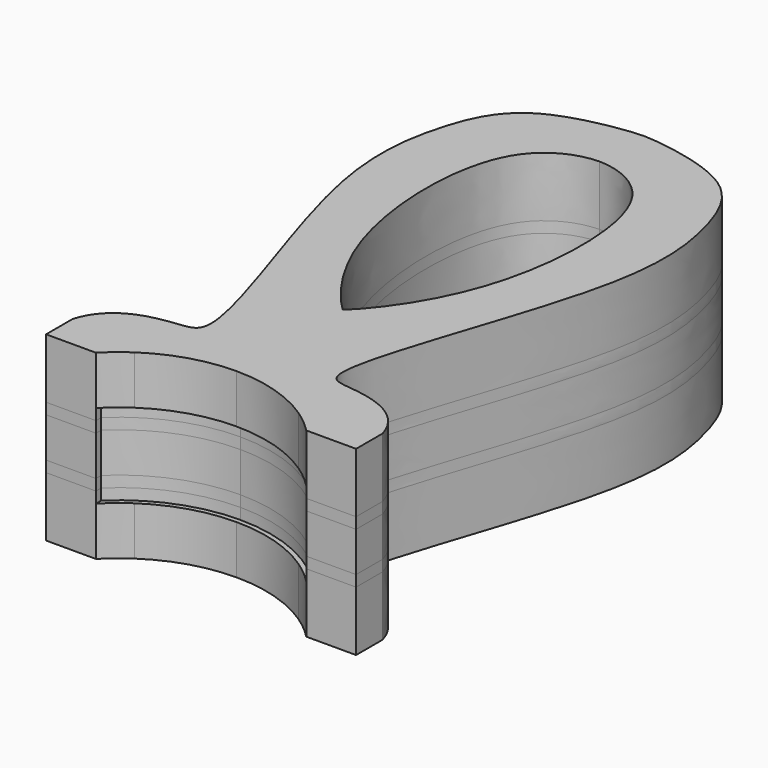
from build123d import *

# Parameters (mm, degrees)
F3_R      = 4
F4_DEPTH  = 27
F5_D      = 8
F5_DEPTH  = 24
F5_TIP    = 2.4034424761
F6_DEPTH  = 5
F10_DEPTH = 5
F12_DEPTH = 5
F13_DEPTH = 18


with BuildPart() as f4:
    # F3 (on Top) → F4 (new body)
    with BuildSketch(Plane.XY):
        with BuildLine():
            Line((-70, -20), (-70, -35))
            Line((-70, -35), (-47.5, -35))
            Line((-47.5, -35), (-47.5, -32))
            ThreePointArc((-47.5, -32), (-25.6037579481, -17.8320797891), (0, -12.8699272283))
            ThreePointArc((0, -12.8699272283), (25.6037579481, -17.8320797891), (47.5, -32))
            Line((47.5, -32), (47.5, -35))
            Line((47.5, -35), (70, -35))
            Line((70, -35), (70, -20))
            add(Edge.make_bspline(
                [(70, -20), (65.292926404, -4.1514223517), (41.0891461043, 0.5780530026), (19.3559618704, 0.718295301), (69.0236368742, 119.1606628798), (62.736071369, 172.6847571669), (46.9675581999, 209.9471449743), (6.0228686221, 215.0105412857), (0, 215)],
                knots=[0, 0, 0, 0, 0.1493763515, 0.2325572319, 0.498190122, 0.6908856495, 0.840262001, 1, 1, 1, 1], degree=3))
            add(Edge.make_bspline(
                [(-70, -20), (-65.292926404, -4.1514223517), (-41.0891461043, 0.5780530026), (-19.3559618704, 0.718295301), (-69.0236368742, 119.1606628798), (-62.736071369, 172.6847571669), (-46.9675581999, 209.9471449743), (-6.0228686221, 215.0105412857), (0, 215)],
                knots=[0, 0, 0, 0, 0.1493763515, 0.2325572319, 0.498190122, 0.6908856495, 0.840262001, 1, 1, 1, 1], degree=3))
        make_face()
        with Locations((0, 26.1816922575)):
            Circle(F3_R, mode=Mode.SUBTRACT)
        with Locations((-49.2230206728, 133.3707869053)):
            Circle(F3_R, mode=Mode.SUBTRACT)
        with BuildLine():
            add(Edge.make_bspline(
                [(0, 190), (-8.3212403225, 189.8976236296), (-38.52715239, 179.4980459551), (-36.7748635352, 88.4691786588), (-7.029996702, 51.396787442), (0, 45)],
                knots=[0, 0, 0, 0, 0.2508692199, 0.6691462547, 1, 1, 1, 1], degree=3))
            add(Edge.make_bspline(
                [(0, 190), (8.3212403225, 189.8976236296), (38.52715239, 179.4980459551), (36.7748635352, 88.4691786588), (7.029996702, 51.396787442), (0, 45)],
                knots=[0, 0, 0, 0, 0.2508692199, 0.6691462547, 1, 1, 1, 1], degree=3))
        make_face(mode=Mode.SUBTRACT)
        with Locations((49.2230206728, 133.3707869053)):
            Circle(F3_R, mode=Mode.SUBTRACT)
        with Locations((0, 202.5)):
            Circle(F3_R, mode=Mode.SUBTRACT)
        with Locations((0, 202.5)):
            Circle(F3_R)
        with Locations((49.2230206728, 133.3707869053)):
            Circle(F3_R)
        with Locations((0, 26.1816922575)):
            Circle(F3_R)
        with Locations((-49.2230206728, 133.3707869053)):
            Circle(F3_R)
        with BuildLine():
            Line((-47.5, -32), (-47.5, -35))
            ThreePointArc((-47.5, -35), (-42.4752488905, -30.3607480361), (-37, -26.2628910248))
            ThreePointArc((-37, -26.2628910248), (-19.3381275867, -17.8780919872), (0, -15))
            ThreePointArc((0, -15), (19.3381275867, -17.8780919872), (37, -26.2628910248))
            ThreePointArc((37, -26.2628910248), (42.4752488905, -30.3607480361), (47.5, -35))
            Line((47.5, -35), (47.5, -32))
            ThreePointArc((47.5, -32), (25.6037579481, -17.8320797891), (0, -12.8699272283))
            ThreePointArc((0, -12.8699272283), (-25.6037579481, -17.8320797891), (-47.5, -32))
        make_face()
    extrude(amount=F4_DEPTH)

    # F5
    with Locations(Plane(origin=(0, 0, 0), x_dir=(1, 0, 0), z_dir=(0, 0, -1))):
        with Locations((0, -202.5), (-49.2230206728, -133.3707869053), (0, -26.1816922575), (49.2230206728, -133.3707869053)):
            Hole(F5_D / 2, depth=F5_DEPTH)
            with Locations((0, 0, -(F5_DEPTH + F5_TIP / 2))):  # 118° drill point
                Cone(0, F5_D / 2, F5_TIP, mode=Mode.SUBTRACT)

    # F3 (on Top) → F6 (cut)
    with BuildSketch(Plane.XY):
        with BuildLine():
            Line((-47.5, -32), (-47.5, -35))
            ThreePointArc((-47.5, -35), (-42.4752488905, -30.3607480361), (-37, -26.2628910248))
            ThreePointArc((-37, -26.2628910248), (-19.3381275867, -17.8780919872), (0, -15))
            ThreePointArc((0, -15), (19.3381275867, -17.8780919872), (37, -26.2628910248))
            ThreePointArc((37, -26.2628910248), (42.4752488905, -30.3607480361), (47.5, -35))
            Line((47.5, -35), (47.5, -32))
            ThreePointArc((47.5, -32), (25.6037579481, -17.8320797891), (0, -12.8699272283))
            ThreePointArc((0, -12.8699272283), (-25.6037579481, -17.8320797891), (-47.5, -32))
        make_face()
    extrude(amount=F6_DEPTH, mode=Mode.SUBTRACT)


with BuildPart() as f7_1:
    # F7: copy of F4
    add(f4.part.moved(Location((0, 0, -82))))


with BuildPart() as f8_1:
    # F8: instance of F7_1
    add(f7_1.part.mirror(Plane(origin=(0, 86.1007239453, -55), x_dir=(1, 0, 0), z_dir=(0, 0, 1))))


with BuildPart() as f10:
    # F3 (on Top) → F10 (new body)
    with BuildSketch(Plane.XY):
        with BuildLine():
            Line((-70, -20), (-70, -35))
            Line((-70, -35), (-47.5, -35))
            Line((-47.5, -35), (-47.5, -32))
            ThreePointArc((-47.5, -32), (-25.6037579481, -17.8320797891), (0, -12.8699272283))
            ThreePointArc((0, -12.8699272283), (25.6037579481, -17.8320797891), (47.5, -32))
            Line((47.5, -32), (47.5, -35))
            Line((47.5, -35), (70, -35))
            Line((70, -35), (70, -20))
            add(Edge.make_bspline(
                [(70, -20), (65.292926404, -4.1514223517), (41.0891461043, 0.5780530026), (19.3559618704, 0.718295301), (69.0236368742, 119.1606628798), (62.736071369, 172.6847571669), (46.9675581999, 209.9471449743), (6.0228686221, 215.0105412857), (0, 215)],
                knots=[0, 0, 0, 0, 0.1493763515, 0.2325572319, 0.498190122, 0.6908856495, 0.840262001, 1, 1, 1, 1], degree=3))
            add(Edge.make_bspline(
                [(-70, -20), (-65.292926404, -4.1514223517), (-41.0891461043, 0.5780530026), (-19.3559618704, 0.718295301), (-69.0236368742, 119.1606628798), (-62.736071369, 172.6847571669), (-46.9675581999, 209.9471449743), (-6.0228686221, 215.0105412857), (0, 215)],
                knots=[0, 0, 0, 0, 0.1493763515, 0.2325572319, 0.498190122, 0.6908856495, 0.840262001, 1, 1, 1, 1], degree=3))
        make_face()
        with Locations((0, 26.1816922575)):
            Circle(F3_R, mode=Mode.SUBTRACT)
        with Locations((-49.2230206728, 133.3707869053)):
            Circle(F3_R, mode=Mode.SUBTRACT)
        with BuildLine():
            add(Edge.make_bspline(
                [(0, 190), (-8.3212403225, 189.8976236296), (-38.52715239, 179.4980459551), (-36.7748635352, 88.4691786588), (-7.029996702, 51.396787442), (0, 45)],
                knots=[0, 0, 0, 0, 0.2508692199, 0.6691462547, 1, 1, 1, 1], degree=3))
            add(Edge.make_bspline(
                [(0, 190), (8.3212403225, 189.8976236296), (38.52715239, 179.4980459551), (36.7748635352, 88.4691786588), (7.029996702, 51.396787442), (0, 45)],
                knots=[0, 0, 0, 0, 0.2508692199, 0.6691462547, 1, 1, 1, 1], degree=3))
        make_face(mode=Mode.SUBTRACT)
        with Locations((49.2230206728, 133.3707869053)):
            Circle(F3_R, mode=Mode.SUBTRACT)
        with Locations((0, 202.5)):
            Circle(F3_R, mode=Mode.SUBTRACT)
    extrude(amount=F10_DEPTH)


with BuildPart() as f10_1:
    # F11: moved
    add(f10.part.moved(Location((0, 0, -5))))


with BuildPart() as f12:
    # F3 (on Top) → F12 (new body)
    with BuildSketch(Plane.XY):
        with BuildLine():
            Line((-70, -20), (-70, -35))
            Line((-70, -35), (-47.5, -35))
            Line((-47.5, -35), (-47.5, -32))
            ThreePointArc((-47.5, -32), (-25.6037579481, -17.8320797891), (0, -12.8699272283))
            ThreePointArc((0, -12.8699272283), (25.6037579481, -17.8320797891), (47.5, -32))
            Line((47.5, -32), (47.5, -35))
            Line((47.5, -35), (70, -35))
            Line((70, -35), (70, -20))
            add(Edge.make_bspline(
                [(70, -20), (65.292926404, -4.1514223517), (41.0891461043, 0.5780530026), (19.3559618704, 0.718295301), (69.0236368742, 119.1606628798), (62.736071369, 172.6847571669), (46.9675581999, 209.9471449743), (6.0228686221, 215.0105412857), (0, 215)],
                knots=[0, 0, 0, 0, 0.1493763515, 0.2325572319, 0.498190122, 0.6908856495, 0.840262001, 1, 1, 1, 1], degree=3))
            add(Edge.make_bspline(
                [(-70, -20), (-65.292926404, -4.1514223517), (-41.0891461043, 0.5780530026), (-19.3559618704, 0.718295301), (-69.0236368742, 119.1606628798), (-62.736071369, 172.6847571669), (-46.9675581999, 209.9471449743), (-6.0228686221, 215.0105412857), (0, 215)],
                knots=[0, 0, 0, 0, 0.1493763515, 0.2325572319, 0.498190122, 0.6908856495, 0.840262001, 1, 1, 1, 1], degree=3))
        make_face()
        with Locations((0, 26.1816922575)):
            Circle(F3_R, mode=Mode.SUBTRACT)
        with Locations((-49.2230206728, 133.3707869053)):
            Circle(F3_R, mode=Mode.SUBTRACT)
        with BuildLine():
            add(Edge.make_bspline(
                [(0, 190), (-8.3212403225, 189.8976236296), (-38.52715239, 179.4980459551), (-36.7748635352, 88.4691786588), (-7.029996702, 51.396787442), (0, 45)],
                knots=[0, 0, 0, 0, 0.2508692199, 0.6691462547, 1, 1, 1, 1], degree=3))
            add(Edge.make_bspline(
                [(0, 190), (8.3212403225, 189.8976236296), (38.52715239, 179.4980459551), (36.7748635352, 88.4691786588), (7.029996702, 51.396787442), (0, 45)],
                knots=[0, 0, 0, 0, 0.2508692199, 0.6691462547, 1, 1, 1, 1], degree=3))
        make_face(mode=Mode.SUBTRACT)
        with Locations((49.2230206728, 133.3707869053)):
            Circle(F3_R, mode=Mode.SUBTRACT)
        with Locations((0, 202.5)):
            Circle(F3_R, mode=Mode.SUBTRACT)
    extrude(amount=F12_DEPTH)


with BuildPart() as f13:
    # F3 (on Top) → F13 (new body)
    with BuildSketch(Plane.XY):
        with BuildLine():
            Line((-70, -20), (-70, -35))
            Line((-70, -35), (-47.5, -35))
            Line((-47.5, -35), (-47.5, -32))
            ThreePointArc((-47.5, -32), (-25.6037579481, -17.8320797891), (0, -12.8699272283))
            ThreePointArc((0, -12.8699272283), (25.6037579481, -17.8320797891), (47.5, -32))
            Line((47.5, -32), (47.5, -35))
            Line((47.5, -35), (70, -35))
            Line((70, -35), (70, -20))
            add(Edge.make_bspline(
                [(70, -20), (65.292926404, -4.1514223517), (41.0891461043, 0.5780530026), (19.3559618704, 0.718295301), (69.0236368742, 119.1606628798), (62.736071369, 172.6847571669), (46.9675581999, 209.9471449743), (6.0228686221, 215.0105412857), (0, 215)],
                knots=[0, 0, 0, 0, 0.1493763515, 0.2325572319, 0.498190122, 0.6908856495, 0.840262001, 1, 1, 1, 1], degree=3))
            add(Edge.make_bspline(
                [(-70, -20), (-65.292926404, -4.1514223517), (-41.0891461043, 0.5780530026), (-19.3559618704, 0.718295301), (-69.0236368742, 119.1606628798), (-62.736071369, 172.6847571669), (-46.9675581999, 209.9471449743), (-6.0228686221, 215.0105412857), (0, 215)],
                knots=[0, 0, 0, 0, 0.1493763515, 0.2325572319, 0.498190122, 0.6908856495, 0.840262001, 1, 1, 1, 1], degree=3))
        make_face()
        with Locations((0, 26.1816922575)):
            Circle(F3_R, mode=Mode.SUBTRACT)
        with Locations((-49.2230206728, 133.3707869053)):
            Circle(F3_R, mode=Mode.SUBTRACT)
        with BuildLine():
            add(Edge.make_bspline(
                [(0, 190), (-8.3212403225, 189.8976236296), (-38.52715239, 179.4980459551), (-36.7748635352, 88.4691786588), (-7.029996702, 51.396787442), (0, 45)],
                knots=[0, 0, 0, 0, 0.2508692199, 0.6691462547, 1, 1, 1, 1], degree=3))
            add(Edge.make_bspline(
                [(0, 190), (8.3212403225, 189.8976236296), (38.52715239, 179.4980459551), (36.7748635352, 88.4691786588), (7.029996702, 51.396787442), (0, 45)],
                knots=[0, 0, 0, 0, 0.2508692199, 0.6691462547, 1, 1, 1, 1], degree=3))
        make_face(mode=Mode.SUBTRACT)
        with Locations((49.2230206728, 133.3707869053)):
            Circle(F3_R, mode=Mode.SUBTRACT)
        with Locations((0, 202.5)):
            Circle(F3_R, mode=Mode.SUBTRACT)
    extrude(amount=F13_DEPTH)


with BuildPart() as f13_1:
    # F14: moved
    add(f13.part.moved(Location((0, 0, -23))))


with BuildPart() as f12_1:
    # F15: moved
    add(f12.part.moved(Location((0, 0, -28))))


solid = Compound([f4.part, f8_1.part, f10_1.part, f13_1.part, f12_1.part])
